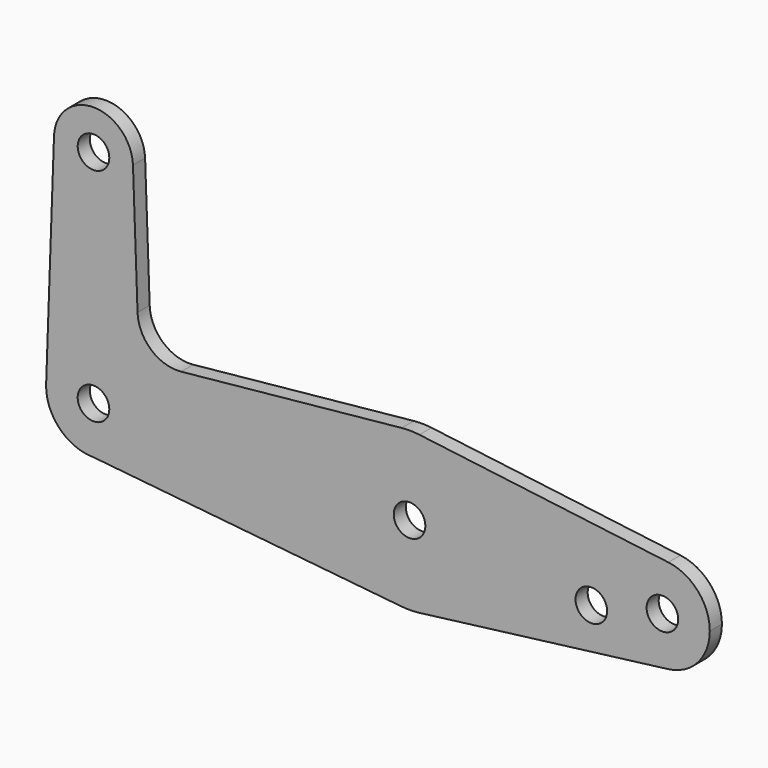
from build123d import *

# Parameters (mm, degrees)
F0_R     = 3.175
F1_DEPTH = 3.048


with BuildPart() as f1:
    # F0 (on Front) → F1 (new body)
    with BuildSketch(Plane.XZ):
        with BuildLine():
            ThreePointArc((-7.932475, 44.732405), (-0.141225, 36.513756), (7.9375, 44.45))
            ThreePointArc((7.9375, 44.45), (7.936234, 44.591764), (7.932436, 44.733482))
            ThreePointArc((7.932436, 44.733482), (-0.000539, 52.3875), (-7.932475, 44.732405))
        make_face()
        with Locations((0, 44.45)):
            Circle(F0_R, mode=Mode.SUBTRACT)
        with BuildLine():
            ThreePointArc((7.932436, 44.733482), (7.936234, 44.591764), (7.9375, 44.45))
            ThreePointArc((7.9375, 44.45), (-0.141225, 36.513756), (-7.932475, 44.732405))
            Line((-7.932475, 44.732405), (-9.500886, 0.677344))
            ThreePointArc((-9.500886, 0.677344), (0.338886, 9.51897), (9.525, 0))
            ThreePointArc((9.525, 0), (6.735192, -6.735192), (0, -9.525))
            Line((0, -9.525), (61.90038, -15.794203))
            ThreePointArc((61.90038, -15.794203), (47.625001, 0.006091), (61.9125, 15.795426))
            Line((61.9125, 15.795426), (17.593382, 11.341187))
            ThreePointArc((17.593382, 11.341187), (11.571359, 13.2612), (8.853234, 18.9676))
            Line((8.853234, 18.9676), (7.932436, 44.733482))
        make_face()
        with BuildLine():
            Line((-9.525, 0), (-9.500886, 0.677344))
            ThreePointArc((-9.500886, 0.677344), (-9.51897, 0.338886), (-9.525, 0))
        make_face()
        with BuildLine():
            ThreePointArc((9.525, 0), (0.338886, 9.51897), (-9.500886, 0.677344))
            Line((-9.500886, 0.677344), (-9.525, 0))
            ThreePointArc((-9.525, 0), (-6.735192, -6.735192), (0, -9.525))
            ThreePointArc((0, -9.525), (6.735192, -6.735192), (9.525, 0))
        make_face()
        Circle(F0_R, mode=Mode.SUBTRACT)
        with BuildLine():
            ThreePointArc((65.484375, 15.750488), (63.699705, 15.873744), (61.9125, 15.795426))
            ThreePointArc((61.9125, 15.795426), (47.625001, 0.006091), (61.90038, -15.794203))
            ThreePointArc((61.90038, -15.794203), (63.693615, -15.873819), (65.484375, -15.750488))
            ThreePointArc((65.484375, -15.750488), (75.40625, -10.500326), (79.375, 0))
            ThreePointArc((79.375, 0), (75.40625, 10.500326), (65.484375, 15.750488))
        make_face()
        with Locations((63.5, 0)):
            Circle(F0_R, mode=Mode.SUBTRACT)
        with BuildLine():
            Line((115.490625, 9.450293), (65.484375, 15.750488))
            ThreePointArc((65.484375, 15.750488), (75.40625, 10.500326), (79.375, 0))
            ThreePointArc((79.375, 0), (75.40625, -10.500326), (65.484375, -15.750488))
            Line((65.484375, -15.750488), (115.490625, -9.450293))
            ThreePointArc((115.490625, -9.450293), (104.775, 0), (115.490625, 9.450293))
        make_face()
        with Locations((100.0252, -3.175)):
            Circle(F0_R, mode=Mode.SUBTRACT)
        with BuildLine():
            ThreePointArc((123.825, 0), (121.44375, 6.300195), (115.490625, 9.450293))
            ThreePointArc((115.490625, 9.450293), (104.775, 0), (115.490625, -9.450293))
            ThreePointArc((115.490625, -9.450293), (121.44375, -6.300195), (123.825, 0))
        make_face()
        with Locations((114.3, 0)):
            Circle(F0_R, mode=Mode.SUBTRACT)
    extrude(amount=F1_DEPTH)


solid = f1.part
